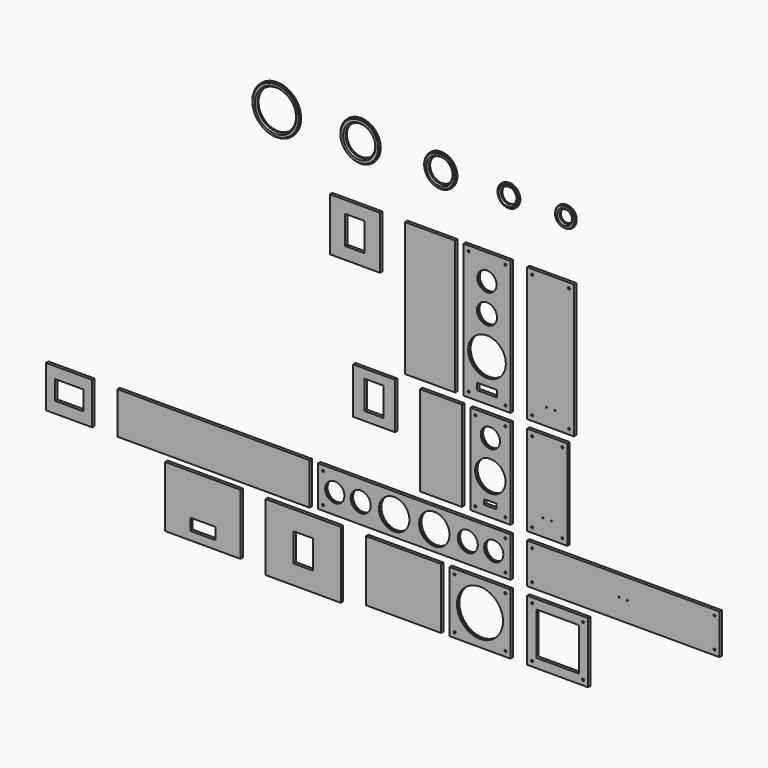
from build123d import *

# Parameters (mm, degrees)
F1_W       = 280
F1_H       = 800
F1_R       = 6
F1_R_2     = 112.5
F1_R_3     = 60
F1_R_4     = 57.5
F2_DEPTH   = 18
F1_R_5     = 3.5
F1_W_2     = 240
F1_H_2     = 539
F1_R_6     = 91
F1_W_3     = 1150
F1_H_3     = 240
F1_W_4     = 364
F1_H_4     = 364
F1_R_7     = 137.5
F3_W       = 300
F3_H       = 800
F4_DEPTH   = 18
F3_H_2     = 316
F3_W_2     = 115
F3_H_3     = 170
F3_W_3     = 250
F3_H_4     = 539
F3_H_5     = 276
F3_W_4     = 1150
F3_H_6     = 250
F3_W_5     = 276
F3_W_6     = 170
F3_H_7     = 115
F3_W_7     = 450
F3_H_8     = 364
F3_H_9     = 400
F5_R       = 137.5
F5_R_2     = 116
F6_DEPTH   = 18
F5_R_3     = 112.5
F5_R_4     = 89
F5_R_5     = 91
F5_R_6     = 71
F5_R_7     = 57.5
F5_R_8     = 37
F5_R_9     = 60
F5_R_10    = 46
F8_R       = 62.5
F8_R_2     = 37
F9_DEPTH   = 4
F8_R_3     = 67
F8_R_4     = 46
F8_R_5     = 98
F8_R_6     = 71
F8_R_7     = 119.5
F8_R_8     = 89
F8_R_9     = 144.5
F8_R_10    = 116
F10_SIZE   = 8
F10_2_SIZE = 8
F10_3_SIZE = 8
F10_4_SIZE = 8
F10_5_SIZE = 8
F11_R      = 62.5
F11_R_2    = 67
F11_R_3    = 119.5
F11_R_4    = 98
F11_R_5    = 144.5
F12_DEPTH  = 5


with BuildPart() as f2:
    # F1 (on Front) → F2 (new body)
    with BuildSketch(Plane.XZ):
        with Locations((-140, 0)):
            Rectangle(F1_W, F1_H)
        with Locations((-250, -370)):
            Circle(F1_R, mode=Mode.SUBTRACT)
        with BuildLine():
            ThreePointArc((-200, -309), (-198.8284271247, -306.1715728753), (-196, -305))
            Line((-196, -305), (-84, -305))
            ThreePointArc((-84, -305), (-81.1715728753, -306.1715728753), (-80, -309))
            Line((-80, -309), (-80, -341))
            ThreePointArc((-80, -341), (-81.1715728753, -343.8284271247), (-84, -345))
            Line((-84, -345), (-196, -345))
            ThreePointArc((-196, -345), (-198.8284271247, -343.8284271247), (-200, -341))
            Line((-200, -341), (-200, -309))
        make_face(mode=Mode.SUBTRACT)
        with Locations((-30, -370)):
            Circle(F1_R, mode=Mode.SUBTRACT)
        with Locations((-140, -150)):
            Circle(F1_R_2, mode=Mode.SUBTRACT)
        with Locations((-140, 76)):
            Circle(F1_R_3, mode=Mode.SUBTRACT)
        with Locations((-140, 247)):
            Circle(F1_R_4, mode=Mode.SUBTRACT)
        with Locations((-250, 370)):
            Circle(F1_R, mode=Mode.SUBTRACT)
        with Locations((-30, 370)):
            Circle(F1_R, mode=Mode.SUBTRACT)
    extrude(amount=F2_DEPTH)


with BuildPart() as f2b:
    # F1 (on Front) → F2, piece 2 (new body)
    with BuildSketch(Plane.XZ):
        with Locations((240, 0)):
            Rectangle(F1_W, F1_H)
        with Locations((130, -370)):
            Circle(F1_R, mode=Mode.SUBTRACT)
        with Locations((215, -300)):
            Circle(F1_R_5, mode=Mode.SUBTRACT)
        with Locations((265, -300)):
            Circle(F1_R_5, mode=Mode.SUBTRACT)
        with Locations((350, -370)):
            Circle(F1_R, mode=Mode.SUBTRACT)
        with Locations((130, 370)):
            Circle(F1_R, mode=Mode.SUBTRACT)
        with Locations((350, 370)):
            Circle(F1_R, mode=Mode.SUBTRACT)
    extrude(amount=F2_DEPTH)


with BuildPart() as f2c:
    # F1 (on Front) → F2, piece 3 (new body)
    with BuildSketch(Plane.XZ):
        with Locations((-120, -719.5)):
            Rectangle(F1_W_2, F1_H_2)
        with Locations((-210, -959)):
            Circle(F1_R, mode=Mode.SUBTRACT)
        with BuildLine():
            ThreePointArc((-157.5, -908), (-156.3284271247, -905.1715728753), (-153.5, -904))
            Line((-153.5, -904), (-86.5, -904))
            ThreePointArc((-86.5, -904), (-83.6715728753, -905.1715728753), (-82.5, -908))
            Line((-82.5, -908), (-82.5, -930))
            ThreePointArc((-82.5, -930), (-83.6715728753, -932.8284271247), (-86.5, -934))
            Line((-86.5, -934), (-153.5, -934))
            ThreePointArc((-153.5, -934), (-156.3284271247, -932.8284271247), (-157.5, -930))
            Line((-157.5, -930), (-157.5, -908))
        make_face(mode=Mode.SUBTRACT)
        with Locations((-30, -959)):
            Circle(F1_R, mode=Mode.SUBTRACT)
        with Locations((-120, -772)):
            Circle(F1_R_6, mode=Mode.SUBTRACT)
        with Locations((-120, -571)):
            Circle(F1_R_4, mode=Mode.SUBTRACT)
        with Locations((-210, -480)):
            Circle(F1_R, mode=Mode.SUBTRACT)
        with Locations((-30, -480)):
            Circle(F1_R, mode=Mode.SUBTRACT)
    extrude(amount=F2_DEPTH)


with BuildPart() as f2d:
    # F1 (on Front) → F2, piece 4 (new body)
    with BuildSketch(Plane.XZ):
        with Locations((220, -719.5)):
            Rectangle(F1_W_2, F1_H_2)
        with Locations((130, -959)):
            Circle(F1_R, mode=Mode.SUBTRACT)
        with Locations((310, -959)):
            Circle(F1_R, mode=Mode.SUBTRACT)
        with Locations((195, -889)):
            Circle(F1_R_5, mode=Mode.SUBTRACT)
        with Locations((245, -889)):
            Circle(F1_R_5, mode=Mode.SUBTRACT)
        with Locations((130, -480)):
            Circle(F1_R, mode=Mode.SUBTRACT)
        with Locations((310, -480)):
            Circle(F1_R, mode=Mode.SUBTRACT)
    extrude(amount=F2_DEPTH)


with BuildPart() as f2e:
    # F1 (on Front) → F2, piece 5 (new body)
    with BuildSketch(Plane.XZ):
        with Locations((-575, -1159)):
            Rectangle(F1_W_3, F1_H_3)
        with Locations((-1120, -1249)):
            Circle(F1_R, mode=Mode.SUBTRACT)
        with Locations((-30, -1249)):
            Circle(F1_R, mode=Mode.SUBTRACT)
        with Locations((-1050, -1159)):
            Circle(F1_R_4, mode=Mode.SUBTRACT)
        with Locations((-1120, -1069)):
            Circle(F1_R, mode=Mode.SUBTRACT)
        with Locations((-895, -1159)):
            Circle(F1_R_3, mode=Mode.SUBTRACT)
        with Locations((-695, -1159)):
            Circle(F1_R_6, mode=Mode.SUBTRACT)
        with Locations((-455, -1159)):
            Circle(F1_R_6, mode=Mode.SUBTRACT)
        with Locations((-255, -1159)):
            Circle(F1_R_3, mode=Mode.SUBTRACT)
        with Locations((-100, -1159)):
            Circle(F1_R_4, mode=Mode.SUBTRACT)
        with Locations((-30, -1069)):
            Circle(F1_R, mode=Mode.SUBTRACT)
    extrude(amount=F2_DEPTH)


with BuildPart() as f2f:
    # F1 (on Front) → F2, piece 6 (new body)
    with BuildSketch(Plane.XZ):
        with Locations((675, -1159)):
            Rectangle(F1_W_3, F1_H_3)
        with Locations((130, -1249)):
            Circle(F1_R, mode=Mode.SUBTRACT)
        with Locations((1220, -1249)):
            Circle(F1_R, mode=Mode.SUBTRACT)
        with Locations((130, -1069)):
            Circle(F1_R, mode=Mode.SUBTRACT)
        with Locations((650, -1159)):
            Circle(F1_R_5, mode=Mode.SUBTRACT)
        with Locations((700, -1159)):
            Circle(F1_R_5, mode=Mode.SUBTRACT)
        with Locations((1220, -1069)):
            Circle(F1_R, mode=Mode.SUBTRACT)
    extrude(amount=F2_DEPTH)


with BuildPart() as f2g:
    # F1 (on Front) → F2, piece 7 (new body)
    with BuildSketch(Plane.XZ):
        with Locations((-182, -1511)):
            Rectangle(F1_W_4, F1_H_4)
        with Locations((-334, -1663)):
            Circle(F1_R, mode=Mode.SUBTRACT)
        with Locations((-30, -1663)):
            Circle(F1_R, mode=Mode.SUBTRACT)
        with Locations((-182, -1511)):
            Circle(F1_R_7, mode=Mode.SUBTRACT)
        with Locations((-334, -1359)):
            Circle(F1_R, mode=Mode.SUBTRACT)
        with Locations((-30, -1359)):
            Circle(F1_R, mode=Mode.SUBTRACT)
    extrude(amount=F2_DEPTH)


with BuildPart() as f2h:
    # F1 (on Front) → F2, piece 8 (new body)
    with BuildSketch(Plane.XZ):
        with Locations((282, -1511)):
            Rectangle(F1_W_4, F1_H_4)
        with Locations((130, -1663)):
            Circle(F1_R, mode=Mode.SUBTRACT)
        with BuildLine():
            ThreePointArc((154.5, -1387.5), (155.6715728753, -1384.6715728753), (158.5, -1383.5))
            Line((158.5, -1383.5), (405.5, -1383.5))
            ThreePointArc((405.5, -1383.5), (408.3284271247, -1384.6715728753), (409.5, -1387.5))
            Line((409.5, -1387.5), (409.5, -1634.5))
            ThreePointArc((409.5, -1634.5), (408.3284271247, -1637.3284271247), (405.5, -1638.5))
            Line((405.5, -1638.5), (158.5, -1638.5))
            ThreePointArc((158.5, -1638.5), (155.6715728753, -1637.3284271247), (154.5, -1634.5))
            Line((154.5, -1634.5), (154.5, -1387.5))
        make_face(mode=Mode.SUBTRACT)
        with Locations((434, -1663)):
            Circle(F1_R, mode=Mode.SUBTRACT)
        with Locations((130, -1359)):
            Circle(F1_R, mode=Mode.SUBTRACT)
        with Locations((434, -1359)):
            Circle(F1_R, mode=Mode.SUBTRACT)
    extrude(amount=F2_DEPTH)


with BuildPart() as f4:
    # F3 (on Front) → F4 (new body)
    with BuildSketch(Plane.XZ):
        with Locations((-480, 0)):
            Rectangle(F3_W, F3_H)
    extrude(amount=F4_DEPTH)


with BuildPart() as f4b:
    # F3 (on Front) → F4, piece 2 (new body)
    with BuildSketch(Plane.XZ):
        with Locations((-930, 242)):
            Rectangle(F3_W, F3_H_2)
        with Locations((-930, 242)):
            Rectangle(F3_W_2, F3_H_3, mode=Mode.SUBTRACT)
    extrude(amount=F4_DEPTH)


with BuildPart() as f4c:
    # F3 (on Front) → F4, piece 3 (new body)
    with BuildSketch(Plane.XZ):
        with Locations((-415, -719.5)):
            Rectangle(F3_W_3, F3_H_4)
    extrude(amount=F4_DEPTH)


with BuildPart() as f4d:
    # F3 (on Front) → F4, piece 4 (new body)
    with BuildSketch(Plane.XZ):
        with Locations((-815, -588)):
            Rectangle(F3_W_3, F3_H_5)
        with Locations((-815, -588)):
            Rectangle(F3_W_2, F3_H_3, mode=Mode.SUBTRACT)
    extrude(amount=F4_DEPTH)


with BuildPart() as f4e:
    # F3 (on Front) → F4, piece 5 (new body)
    with BuildSketch(Plane.XZ):
        with Locations((-1775, -1164)):
            Rectangle(F3_W_4, F3_H_6)
    extrude(amount=F4_DEPTH)


with BuildPart() as f4f:
    # F3 (on Front) → F4, piece 6 (new body)
    with BuildSketch(Plane.XZ):
        with Locations((-2638, -1164)):
            Rectangle(F3_W_5, F3_H_6)
        with Locations((-2638, -1164)):
            Rectangle(F3_W_6, F3_H_7, mode=Mode.SUBTRACT)
    extrude(amount=F4_DEPTH)


with BuildPart() as f4g:
    # F3 (on Front) → F4, piece 7 (new body)
    with BuildSketch(Plane.XZ):
        with Locations((-639, -1511)):
            Rectangle(F3_W_7, F3_H_8)
    extrude(amount=F4_DEPTH)


with BuildPart() as f4h:
    # F3 (on Front) → F4, piece 8 (new body)
    with BuildSketch(Plane.XZ):
        with Locations((-1239, -1529)):
            Rectangle(F3_W_7, F3_H_9)
        with Locations((-1239, -1529)):
            Rectangle(F3_W_2, F3_H_3, mode=Mode.SUBTRACT)
    extrude(amount=F4_DEPTH)


with BuildPart() as f4i:
    # F3 (on Front) → F4, piece 9 (new body)
    with BuildSketch(Plane.XZ):
        with Locations((-1839, -1511)):
            Rectangle(F3_W_7, F3_H_8)
        with BuildLine():
            ThreePointArc((-1914, -1577), (-1912.8284271247, -1574.1715728753), (-1910, -1573))
            Line((-1910, -1573), (-1768, -1573))
            ThreePointArc((-1768, -1573), (-1765.1715728753, -1574.1715728753), (-1764, -1577))
            Line((-1764, -1577), (-1764, -1639))
            ThreePointArc((-1764, -1639), (-1765.1715728753, -1641.8284271247), (-1768, -1643))
            Line((-1768, -1643), (-1910, -1643))
            ThreePointArc((-1910, -1643), (-1912.8284271247, -1641.8284271247), (-1914, -1639))
            Line((-1914, -1639), (-1914, -1577))
        make_face(mode=Mode.SUBTRACT)
    extrude(amount=F4_DEPTH)


with BuildPart() as f6:
    # F5 (on Front) → F6 (new body)
    with BuildSketch(Plane.XZ):
        with Locations((-1404.1702416508, 735.7305288315)):
            Circle(F5_R)
        with Locations((-1404.1702416508, 735.7305288315)):
            Circle(F5_R_2, mode=Mode.SUBTRACT)
    extrude(amount=F6_DEPTH)

    # F8 (on offset) → F9, piece 5 (join)
    with BuildSketch(Plane.XZ.offset(7)):
        with Locations((-1404.1702416508, 735.7305288315)):
            Circle(F8_R_9)
        with Locations((-1404.1702416508, 735.7305288315)):
            Circle(F8_R_10, mode=Mode.SUBTRACT)
    extrude(amount=F9_DEPTH)

    # F10
    f10_edges = [f6.edges().sort_by_distance(p)[0] for p in [
        (-1520.170242, -18, 735.730529),
    ]]
    chamfer(f10_edges, length=F10_SIZE)


with BuildPart() as f6b:
    # F5 (on Front) → F6, piece 2 (new body)
    with BuildSketch(Plane.XZ):
        with Locations((-903.372988584, 735.7305288315)):
            Circle(F5_R_3)
        with Locations((-903.372988584, 735.7305288315)):
            Circle(F5_R_4, mode=Mode.SUBTRACT)
    extrude(amount=F6_DEPTH)

    # F8 (on offset) → F9, piece 4 (join)
    with BuildSketch(Plane.XZ.offset(7)):
        with Locations((-903.372988584, 735.7305288315)):
            Circle(F8_R_7)
        with Locations((-903.372988584, 735.7305288315)):
            Circle(F8_R_8, mode=Mode.SUBTRACT)
    extrude(amount=F9_DEPTH)

    # F10#2
    f10_2_edges = [f6b.edges().sort_by_distance(p)[0] for p in [
        (-992.372989, -18, 735.730529),
    ]]
    chamfer(f10_2_edges, length=F10_2_SIZE)


with BuildPart() as f6c:
    # F5 (on Front) → F6, piece 3 (new body)
    with BuildSketch(Plane.XZ):
        with Locations((-423.442340692, 735.7305288315)):
            Circle(F5_R_5)
        with Locations((-423.442340692, 735.7305288315)):
            Circle(F5_R_6, mode=Mode.SUBTRACT)
    extrude(amount=F6_DEPTH)

    # F8 (on offset) → F9, piece 3 (join)
    with BuildSketch(Plane.XZ.offset(7)):
        with Locations((-423.442340692, 735.7305288315)):
            Circle(F8_R_5)
        with Locations((-423.442340692, 735.7305288315)):
            Circle(F8_R_6, mode=Mode.SUBTRACT)
    extrude(amount=F9_DEPTH)

    # F10#3
    f10_3_edges = [f6c.edges().sort_by_distance(p)[0] for p in [
        (-494.442341, -18, 735.730529),
    ]]
    chamfer(f10_3_edges, length=F10_3_SIZE)


with BuildPart() as f6d:
    # F5 (on Front) → F6, piece 4 (new body)
    with BuildSketch(Plane.XZ):
        with Locations((324.2757007608, 735.7305288315)):
            Circle(F5_R_7)
        with Locations((324.2757007608, 735.7305288315)):
            Circle(F5_R_8, mode=Mode.SUBTRACT)
    extrude(amount=F6_DEPTH)

    # F8 (on offset) → F9 (join)
    with BuildSketch(Plane.XZ.offset(7)):
        with Locations((324.2757007608, 735.7305288315)):
            Circle(F8_R)
        with Locations((324.2757007608, 735.7305288315)):
            Circle(F8_R_2, mode=Mode.SUBTRACT)
    extrude(amount=F9_DEPTH)

    # F10#5
    f10_5_edges = [f6d.edges().sort_by_distance(p)[0] for p in [
        (287.275701, -18, 735.730529),
    ]]
    chamfer(f10_5_edges, length=F10_5_SIZE)


with BuildPart() as f6e:
    # F5 (on Front) → F6, piece 5 (new body)
    with BuildSketch(Plane.XZ):
        with Locations((-16.5446028402, 735.7305288315)):
            Circle(F5_R_9)
        with Locations((-16.5446028402, 735.7305288315)):
            Circle(F5_R_10, mode=Mode.SUBTRACT)
    extrude(amount=F6_DEPTH)

    # F8 (on offset) → F9, piece 2 (join)
    with BuildSketch(Plane.XZ.offset(7)):
        with Locations((-16.5446028402, 735.7305288315)):
            Circle(F8_R_3)
        with Locations((-16.5446028402, 735.7305288315)):
            Circle(F8_R_4, mode=Mode.SUBTRACT)
    extrude(amount=F9_DEPTH)

    # F10#4
    f10_4_edges = [f6e.edges().sort_by_distance(p)[0] for p in [
        (-62.544603, -18, 735.730529),
    ]]
    chamfer(f10_4_edges, length=F10_4_SIZE)


with BuildPart() as f12_tool:
    # F11 (on offset) → F12 (new body)
    with BuildSketch(Plane.XZ.offset(7)):
        with Locations((-140, 247)):
            Circle(F11_R)
        with Locations((-140, 76)):
            Circle(F11_R_2)
        with Locations((-140, -150)):
            Circle(F11_R_3)
        with Locations((-120, -571)):
            Circle(F11_R)
        with Locations((-120, -772)):
            Circle(F11_R_4)
        with Locations((-1050, -1159)):
            Circle(F11_R)
        with Locations((-895, -1159)):
            Circle(F11_R_2)
        with Locations((-695, -1159)):
            Circle(F11_R_4)
        with Locations((-182, -1511)):
            Circle(F11_R_5)
        with Locations((-455, -1159)):
            Circle(F11_R_4)
        with Locations((-255, -1159)):
            Circle(F11_R_2)
        with Locations((-100, -1159)):
            Circle(F11_R)
    extrude(amount=F12_DEPTH)


with BuildPart() as f2_1:
    add(f2.part)

    # F12: cut by f12_tool
    add(f12_tool.part, mode=Mode.SUBTRACT)


with BuildPart() as f2c_1:
    add(f2c.part)

    # F12: cut by f12_tool
    add(f12_tool.part, mode=Mode.SUBTRACT)


with BuildPart() as f2e_1:
    add(f2e.part)

    # F12: cut by f12_tool
    add(f12_tool.part, mode=Mode.SUBTRACT)


with BuildPart() as f2g_1:
    add(f2g.part)

    # F12: cut by f12_tool
    add(f12_tool.part, mode=Mode.SUBTRACT)


solid = Compound([f2b.part, f2d.part, f2f.part, f2h.part, f4.part, f4b.part, f4c.part, f4d.part, f4e.part, f4f.part, f4g.part, f4h.part, f4i.part, f6.part, f6b.part, f6c.part, f6d.part, f6e.part, f2_1.part, f2c_1.part, f2e_1.part, f2g_1.part])
